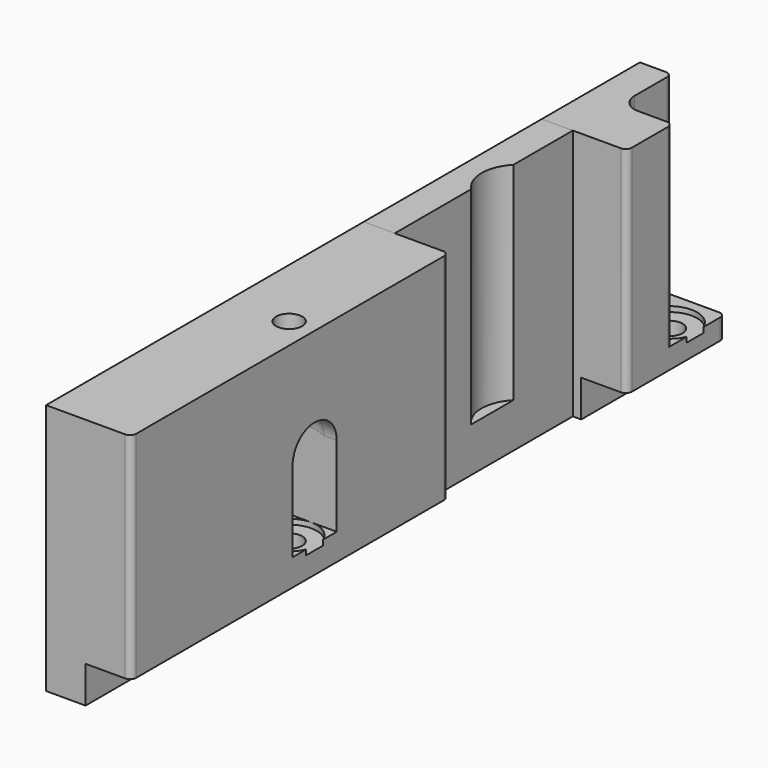
from build123d import *

# Parameters (mm, degrees)
SKETCH_W        = 7.45
SKETCH_H        = 64.68
SKETCH_R        = 2.125
PAD_DEPTH       = 4.35
PAD_FACE3_W     = 64.68
PAD_FACE3_H     = 4.35
PAD001_DEPTH    = 6.43
PAD001_FACE8_W  = 64.68
PAD001_FACE8_H  = 6.43
PAD002_DEPTH    = 6
POCKET_DEPTH    = 0.85
PAD003_DEPTH    = 17.5
SKETCH003_W     = 13.88
SKETCH003_H     = 64.68
SKETCH003_R     = 2.125
PAD004_DEPTH    = 13.15
FILLET_R        = 4.4
FILLET001_R     = 1
SKETCH004_W     = 36.26
SKETCH004_H     = 5.06
PAD005_DEPTH    = 7.25
PAD006_DEPTH    = 33.75
SKETCH006_W     = 7.45
SKETCH006_H     = 19.985
SKETCH006_R     = 2.125
PAD007_DEPTH    = 3.35
PAD007_FACE3_W  = 19.985
PAD007_FACE3_H  = 3.35
PAD008_DEPTH    = 6.43
PAD008_FACE8_W  = 19.985
PAD008_FACE8_H  = 6.43
PAD009_DEPTH    = 6
SKETCH007_R     = 4.5
POCKET001_DEPTH = 0.85
PAD010_DEPTH    = 31.65
FILLET002_R     = 1
FILLET003_R     = 3


with BuildPart() as obj1:
    # Sketch → Pad (new body)
    with BuildSketch(Plane.XY):
        Rectangle(SKETCH_W, SKETCH_H)
        with Locations((-0.43, 5)):
            Circle(SKETCH_R, mode=Mode.SUBTRACT)
    extrude(amount=PAD_DEPTH)

    # Pad Face3 → Pad001 (add)
    with BuildSketch(Plane(origin=(-3.725, 0, 2.175), x_dir=(0, 1, 0), z_dir=(-1, 0, 0))):
        Rectangle(PAD_FACE3_W, PAD_FACE3_H)
    extrude(amount=PAD001_DEPTH)

    # Pad001 Face8 → Pad002 (add)
    with BuildSketch(Plane(origin=(-6.94, 0, 0), x_dir=(0, -1, 0), z_dir=(0, 0, -1))):
        Rectangle(PAD001_FACE8_W, PAD001_FACE8_H)
    extrude(amount=PAD002_DEPTH)

    # Sketch001 (on Face5 of Pad002) → Pocket (cut)
    with BuildSketch(Plane.XY.offset(4.35)):
        with BuildLine():
            ThreePointArc((-4.205, 2.550638), (-0.022334, 0.518504), (3.725, 3.272003))
            Line((3.725, 6.727997), (3.725, 3.272003))
            ThreePointArc((3.725, 6.727997), (-0.022334, 9.481496), (-4.205, 7.449362))
            Line((-4.205, 7.449362), (-4.205, 2.550638))
        make_face()
    extrude(amount=-POCKET_DEPTH, mode=Mode.SUBTRACT)

    # Sketch002 (on Face8 of Pocket) → Pad003 (join)
    with BuildSketch(Plane.XY.offset(4.35)):
        Polygon((-10.155, -32.34), (-10.155, 32.34), (3.725, 32.34), (3.725, 9.5), (-4.205, 9.5), (-4.205, 0.5), (3.725, 0.5), (3.725, -32.34), align=None)
    extrude(amount=PAD003_DEPTH)

    # Sketch003 (on Face17 of Pad003) → Pad004 (join)
    with BuildSketch(Plane.XY.offset(21.85)):
        with Locations((-3.215, 0)):
            Rectangle(SKETCH003_W, SKETCH003_H)
        with Locations((-0.43, 5)):
            Circle(SKETCH003_R, mode=Mode.SUBTRACT)
    extrude(amount=PAD004_DEPTH)

    # Fillet
    fillet_edges = [obj1.edges().sort_by_distance(p)[0] for p in [
        (-0.24, 0.5, 21.85),
        (-0.24, 9.5, 21.85),
    ]]
    fillet(fillet_edges, radius=FILLET_R)

    # Fillet001
    fillet001_edges = [obj1.edges().sort_by_distance(p)[0] for p in [
        (3.725, -32.34, 13.1),
        (3.725, -32.34, 28.425),
        (3.725, -32.34, 2.175),
        (3.725, 32.34, 2.175),
        (3.725, 32.34, 13.1),
        (3.725, 32.34, 28.425),
    ]]
    fillet(fillet001_edges, radius=FILLET001_R)


with BuildPart() as obj2:
    # Sketch004 (on DatumPlane) → Pad005 (new body)
    with BuildSketch(Plane(origin=(-3.725, 32.34, -6), x_dir=(0, 1, 0), z_dir=(0, 0, 1))):
        with Locations((18.13, 3.9)):
            Rectangle(SKETCH004_W, SKETCH004_H)
    extrude(amount=PAD005_DEPTH)

    # Sketch005 (on Face6 of Pad005) → Pad006 (join)
    with BuildSketch(Plane(origin=(-3.725, 32.34, 1.25), x_dir=(0, 1, 0), z_dir=(0, 0, 1))):
        with BuildLine():
            ThreePointArc((24.16, 1.37), (19.86, 3.12), (15.56, 1.37))
            Line((15.56, 1.37), (0, 1.37))
            Line((0, 1.37), (0, 6.43))
            Line((0, 6.43), (36.26, 6.43))
            Line((36.26, 6.43), (36.26, 1.37))
            Line((36.26, 1.37), (24.16, 1.37))
        make_face()
    extrude(amount=PAD006_DEPTH)


with BuildPart() as obj3:
    # Sketch006 → Pad007 (new body)
    with BuildSketch(Plane.XY):
        with Locations((0, 78.5925)):
            Rectangle(SKETCH006_W, SKETCH006_H)
        with Locations((-0.43, 82.46)):
            Circle(SKETCH006_R, mode=Mode.SUBTRACT)
    extrude(amount=PAD007_DEPTH)

    # Pad007 Face3 → Pad008 (add)
    with BuildSketch(Plane(origin=(-3.725, 78.5925, 1.675), x_dir=(0, 1, 0), z_dir=(-1, 0, 0))):
        Rectangle(PAD007_FACE3_W, PAD007_FACE3_H)
    extrude(amount=PAD008_DEPTH)

    # Pad008 Face8 → Pad009 (add)
    with BuildSketch(Plane(origin=(-6.94, 78.5925, 0), x_dir=(0, -1, 0), z_dir=(0, 0, -1))):
        Rectangle(PAD008_FACE8_W, PAD008_FACE8_H)
    extrude(amount=PAD009_DEPTH)

    # Sketch007 (on Face5 of Pad009) → Pocket001 (cut)
    with BuildSketch(Plane.XY.offset(3.35)):
        with Locations((-0.43, 82.46)):
            Circle(SKETCH007_R)
    extrude(amount=-POCKET001_DEPTH, mode=Mode.SUBTRACT)

    # Sketch008 (on Face7 of Pocket001) → Pad010 (join)
    with BuildSketch(Plane.XY.offset(3.35)):
        Polygon((-10.155, 68.6), (3.725, 68.6), (3.725, 77.96), (-4.93, 77.96), (-4.93, 88.585), (-10.155, 88.585), align=None)
    extrude(amount=PAD010_DEPTH)

    # Fillet002
    fillet002_edges = [obj3.edges().sort_by_distance(p)[0] for p in [
        (3.725, 68.6, 19.175),
        (3.725, 68.6, 1.675),
        (3.725, 88.585, 1.675),
        (-4.93, 88.585, 19.175),
        (3.725, 77.96, 19.175),
    ]]
    fillet(fillet002_edges, radius=FILLET002_R)

    # Fillet003
    fillet003_edges = [obj3.edges().sort_by_distance(p)[0] for p in [
        (-4.93, 77.96, 19.175),
    ]]
    fillet(fillet003_edges, radius=FILLET003_R)


solid = Compound([obj1.part, obj2.part, obj3.part])
